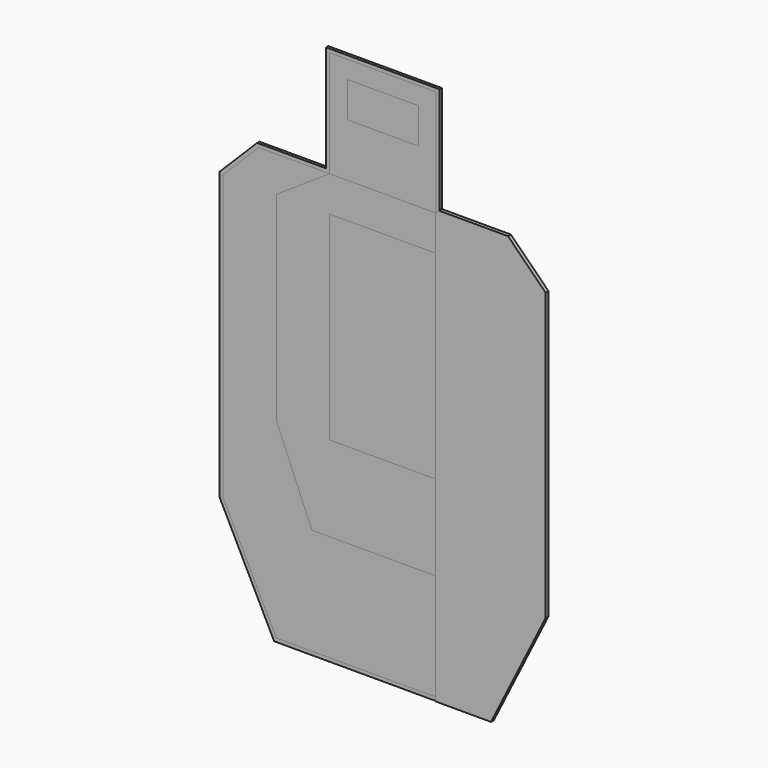
from build123d import *

# Parameters (mm, degrees)
F1_DEPTH  = 3
F2_W      = 150
F2_H      = 150
F3_DEPTH  = 3
F4_W      = 150
F4_H      = 280
F5_DEPTH  = 3
F6_W      = 150
F6_H      = 280
F7_DEPTH  = 3
F9_DEPTH  = 3
F11_DEPTH = 3
F13_DEPTH = 1
F15_DEPTH = 1
F17_DEPTH = 1


with BuildPart() as f1:
    # F0 (on Front) → F1 (new body)
    with BuildSketch(Plane.XZ):
        Polygon((50, 125), (0, 125), (-50, 125), (-50, 100), (-50, 75), (0, 75), (50, 75), (50, 100), align=None)
    extrude(amount=-F1_DEPTH)


with BuildPart() as f3:
    # F2 (on Front) → F3 (new body)
    with BuildSketch(Plane.XZ):
        with Locations((0, 75)):
            Rectangle(F2_W, F2_H)
        Polygon((-50, 125), (0, 125), (50, 125), (50, 100), (50, 75), (0, 75), (-50, 75), (-50, 100), align=None, mode=Mode.SUBTRACT)
    extrude(amount=-F3_DEPTH)


with BuildPart() as f5:
    # F4 (on Front) → F5 (new body)
    with BuildSketch(Plane.XZ):
        with Locations((0, -190)):
            Rectangle(F4_W, F4_H)
    extrude(amount=-F5_DEPTH)


with BuildPart() as f7:
    # F6 (on Front) → F7 (new body)
    with BuildSketch(Plane.XZ):
        Polygon((75, 0), (-75, 0), (-150, -50), (-150, -330), (-100, -450), (100, -450), (150, -330), (150, -50), align=None)
        with Locations((0, -190)):
            Rectangle(F6_W, F6_H, mode=Mode.SUBTRACT)
    extrude(amount=-F7_DEPTH)


with BuildPart() as f9:
    # F8 (on face) → F9 (new body)
    with BuildSketch(Plane.XZ):
        Polygon((175, 0), (75, 0), (150, -50), (150, -330), (100, -450), (-100, -450), (-150, -330), (-150, -50), (-75, 0), (-175, 0), (-225, -50), (-225, -450), (-150, -600), (150, -600), (225, -450), (225, -50), align=None)
    extrude(amount=-F9_DEPTH)


with BuildPart() as f11:
    # F10 (on face) → F11 (new body)
    with BuildSketch(Plane.XZ):
        Polygon((230, -47.928932), (177.071068, 5), (80, 5), (80, 155), (-80, 155), (-80, 5), (-177.071068, 5), (-230, -47.928932), (-230, -451.18034), (-153.09017, -605), (153.09017, -605), (230, -451.18034), align=None)
        Polygon((-75, 150), (75, 150), (75, 0), (175, 0), (225, -50), (225, -450), (150, -600), (-150, -600), (-225, -450), (-225, -50), (-175, 0), (-75, 0), align=None, mode=Mode.SUBTRACT)
    extrude(amount=-F11_DEPTH)


with BuildPart() as f13:
    # F12 (on face) → F13 (new body)
    with BuildSketch(Plane(origin=(0, 3, 0), x_dir=(-1, 0, 0), z_dir=(0, 1, 0))):
        Polygon((75, 0), (75, 150), (-75, 150), (-75, 0), (-175, 0), (-225, -50), (-225, -450), (-150, -600), (150, -600), (225, -450), (225, -50), (175, 0), align=None)
    extrude(amount=F13_DEPTH)


with BuildPart() as f15:
    # F14 (on face) → F15 (new body)
    with BuildSketch(Plane(origin=(0, 4, 0), x_dir=(-1, 0, 0), z_dir=(0, 1, 0))):
        Polygon((80, 155), (-80, 155), (-80, 5), (-177.071068, 5), (-230, -47.928932), (-230, -451.18034), (-153.09017, -605), (153.09017, -605), (230, -451.18034), (230, -47.928932), (177.071068, 5), (80, 5), align=None)
        Polygon((-75, 0), (-75, 150), (75, 150), (75, 0), (175, 0), (225, -50), (225, -450), (150, -600), (-150, -600), (-225, -450), (-225, -50), (-175, 0), align=None, mode=Mode.SUBTRACT)
    extrude(amount=-F15_DEPTH)


with BuildPart() as f17:
    # F16 (on face) → F17 (new body)
    with BuildSketch(Plane.XZ):
        Polygon((177.071068, 5), (80, 5), (75, 0), (75, -605), (153.09017, -605), (230, -451.18034), (230, -47.928932), align=None)
    extrude(amount=F17_DEPTH)


solid = Compound([f1.part, f3.part, f5.part, f7.part, f9.part, f11.part, f13.part, f15.part, f17.part])
